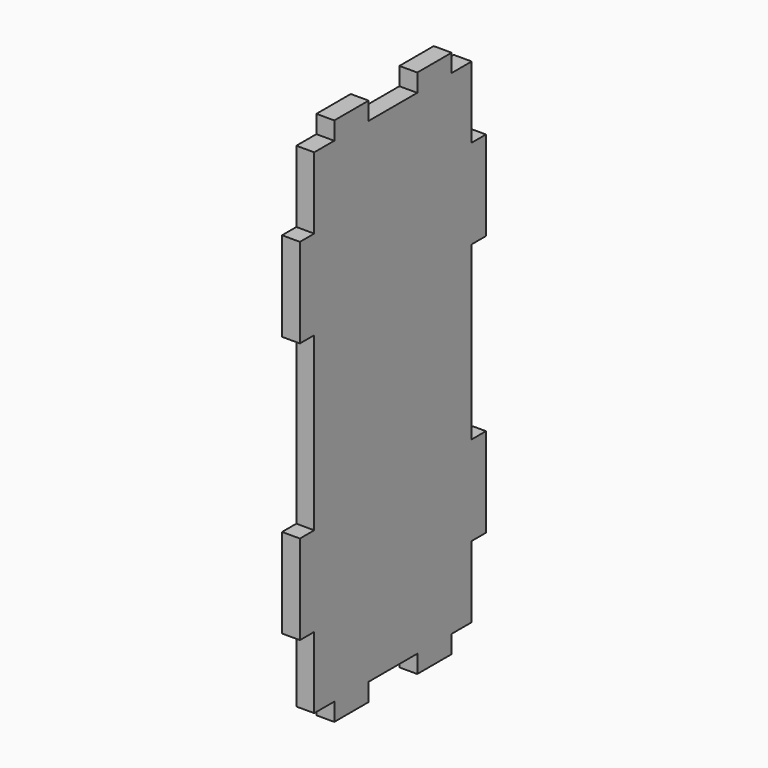
from build123d import *

# Parameters (mm, degrees)
F0_W     = 12
F0_H     = 5
F0_W_2   = 5
F0_H_2   = 25
F1_DEPTH = 5


with BuildPart() as f1:
    # F0 (on Right) → F1 (new body)
    with BuildSketch(Plane.YZ):
        Polygon((27.5, 49), (27.5, 69), (20.5, 69), (8.5, 69), (-8.5, 69), (-20.5, 69), (-27.5, 69), (-27.5, 49), (-27.5, 24), (-27.5, -24), (-27.5, -49), (-27.5, -69), (-20.5, -69), (-8.5, -69), (8.5, -69), (20.5, -69), (27.5, -69), (27.5, -49), (27.5, -24), (27.5, 24), align=None)
        with Locations((-14.5, 71.5)):
            Rectangle(F0_W, F0_H)
        with Locations((14.5, 71.5)):
            Rectangle(F0_W, F0_H)
        with Locations((30, 36.5)):
            Rectangle(F0_W_2, F0_H_2)
        with Locations((30, -36.5)):
            Rectangle(F0_W_2, F0_H_2)
        with Locations((14.5, -71.5)):
            Rectangle(F0_W, F0_H)
        with Locations((-14.5, -71.5)):
            Rectangle(F0_W, F0_H)
        with Locations((-30, -36.5)):
            Rectangle(F0_W_2, F0_H_2)
        with Locations((-30, 36.5)):
            Rectangle(F0_W_2, F0_H_2)
    extrude(amount=F1_DEPTH)


solid = f1.part
